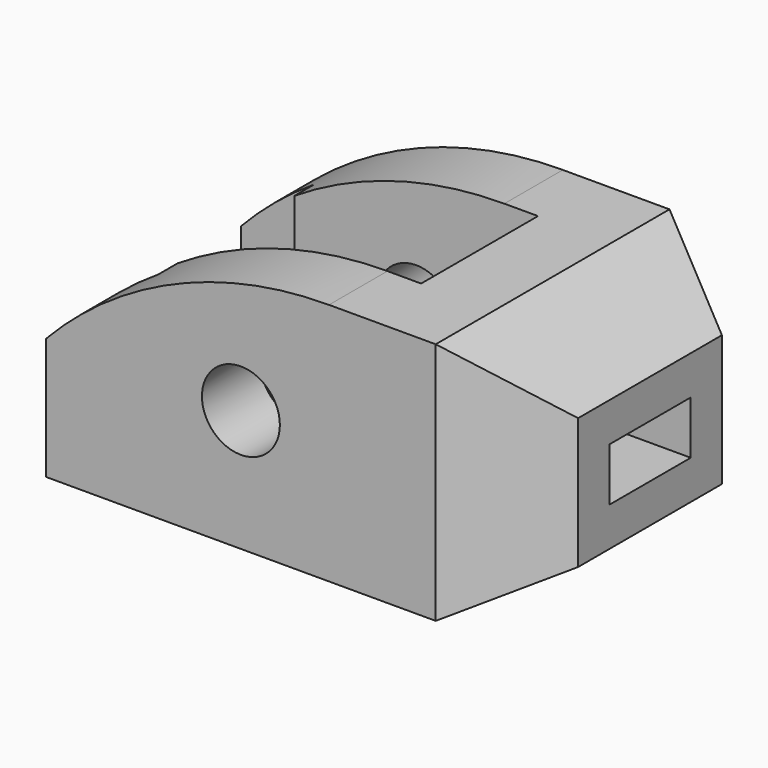
from build123d import *

# Parameters (mm, degrees)
F0_R          = 8
F1_DEPTH      = 60
F2_W          = 50
F2_H          = 30
F3_DEPTH      = 25.001
F3_DEPTH_BACK = 25
F4_W          = 60
F4_H          = 50
F5_DEPTH      = 20
F7_DEPTH      = 60.001
F9_DEPTH      = 50.001
F10_W         = 20.9059892324
F10_H         = 10.9059892324
F11_DEPTH     = 100.001


with BuildPart() as f1:
    # F0 (on Front) → F1 (new body)
    with BuildSketch(Plane.XZ):
        with BuildLine():
            ThreePointArc((18.0947501931, 25), (-13.5280264086, 18.4846922835), (-40, 0))
            Line((-40, 0), (-40, -25))
            Line((-40, -25), (40, -25))
            Line((40, -25), (40, 25))
            Line((40, 25), (18.0947501931, 25))
        make_face()
        Circle(F0_R, mode=Mode.SUBTRACT)
    extrude(amount=F1_DEPTH)

    # F2 (on Top) → F3 (cut, two sides)
    with BuildSketch(Plane.XY) as f3_sk:
        Polygon((-40, -50), (-25, -50), (-25, -45), (-25, -15), (-25, -10), (-40, -10), align=None)
        with Locations((0, -30)):
            Rectangle(F2_W, F2_H)
    extrude(amount=-F3_DEPTH, mode=Mode.SUBTRACT)
    extrude(f3_sk.sketch, amount=F3_DEPTH_BACK, mode=Mode.SUBTRACT)

    # F4 (on face) → F5 (join)
    with BuildSketch(Plane.YZ.offset(40)):
        with Locations((-30, 0)):
            Rectangle(F4_W, F4_H)
    extrude(amount=F5_DEPTH)

    # F6 (on face) → F7 (cut, through all)
    with BuildSketch(Plane.XZ.offset(60)):
        Polygon((60, 25), (40, 25), (60, 13.4529946162), align=None)
        Polygon((60, -25), (60, -13.4529946162), (40, -25), align=None)
    extrude(amount=-F7_DEPTH, mode=Mode.SUBTRACT)

    # F8 (on face) → F9 (cut, through all)
    with BuildSketch(Plane.XY.offset(25)):
        Polygon((60, 0), (40, 0), (60, -11.5470053838), align=None)
        Polygon((60, -48.4529946162), (40, -60), (60, -60), align=None)
    extrude(amount=-F9_DEPTH, mode=Mode.SUBTRACT)

    # F10 (on face) → F11 (cut, through all)
    with BuildSketch(Plane.YZ.offset(60)):
        with Locations((-30, 0)):
            Rectangle(F10_W, F10_H)
    extrude(amount=-F11_DEPTH, mode=Mode.SUBTRACT)


solid = f1.part
